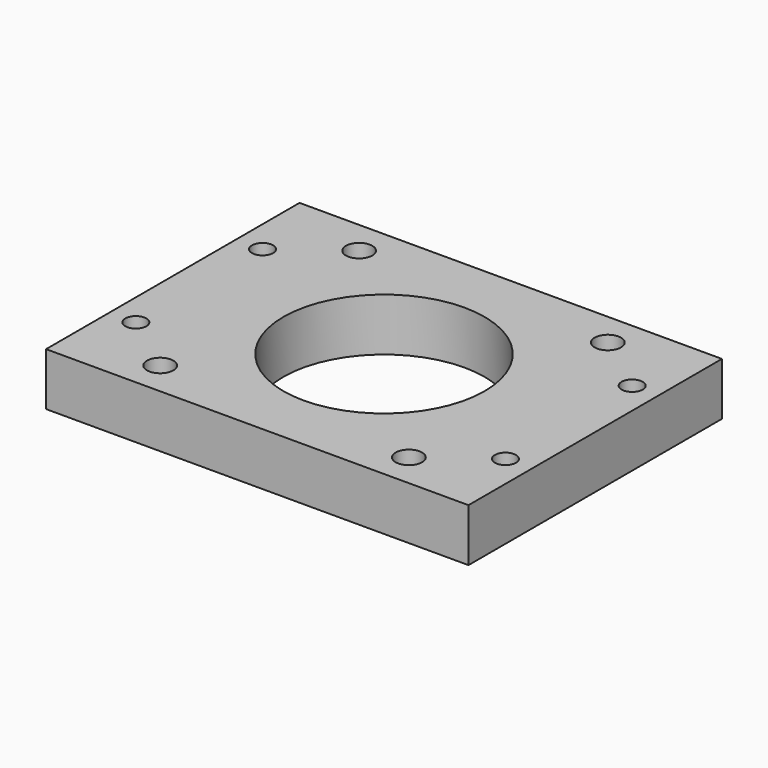
from build123d import *

# Parameters (mm, degrees)
F0_W     = 80
F0_H     = 60
F1_DEPTH = 10
F3_D     = 38.1
F5_D     = 5
F7_D     = 4


with BuildPart() as f1:
    # F0 (on Top) → F1 (new body)
    with BuildSketch(Plane.XY):
        with Locations((40, 30)):
            Rectangle(F0_W, F0_H)
    extrude(amount=F1_DEPTH)

    # F3 (through all)
    with Locations(Plane(origin=(0, 0, 0), x_dir=(1, 0, 0), z_dir=(0, 0, -1))):
        with Locations((40, -30)):
            Hole(F3_D / 2)

    # F5 (through all)
    with Locations(Plane(origin=(0, 0, 0), x_dir=(1, 0, 0), z_dir=(0, 0, -1))):
        with Locations((16.45, -6.45), (63.55, -6.45), (63.55, -53.55), (16.45, -53.55)):
            Hole(F5_D / 2)

    # F7 (through all)
    with Locations(Plane.XY.offset(10)):
        with Locations((5, 45), (75, 45), (75, 15), (5, 15)):
            Hole(F7_D / 2)


solid = f1.part
